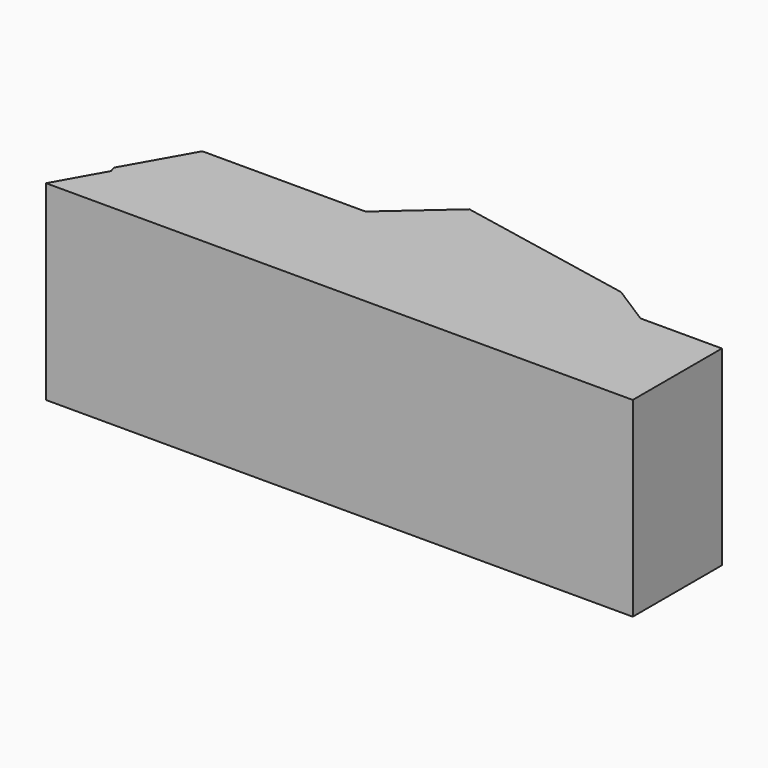
from build123d import *

# Parameters (mm, degrees)
F1_DEPTH = 22.590555


with BuildPart() as f1:
    # F0 (on Top) → F1 (new body, symmetric)
    with BuildSketch(Plane.XY):
        Polygon((-53.042468, 15.297718), (-61.688926, 0), (-61.275955, -1.439884), (-67.60405, -12.736283), (-49.14939, -12.736283), (71.265802, -12.736283), (71.265802, 13.646234), (51.990569, 13.646234), (42.609021, 19.623585), (0, 28.004922), (-14.403589, 15.297718), align=None)
    extrude(amount=F1_DEPTH, both=True)


solid = f1.part
